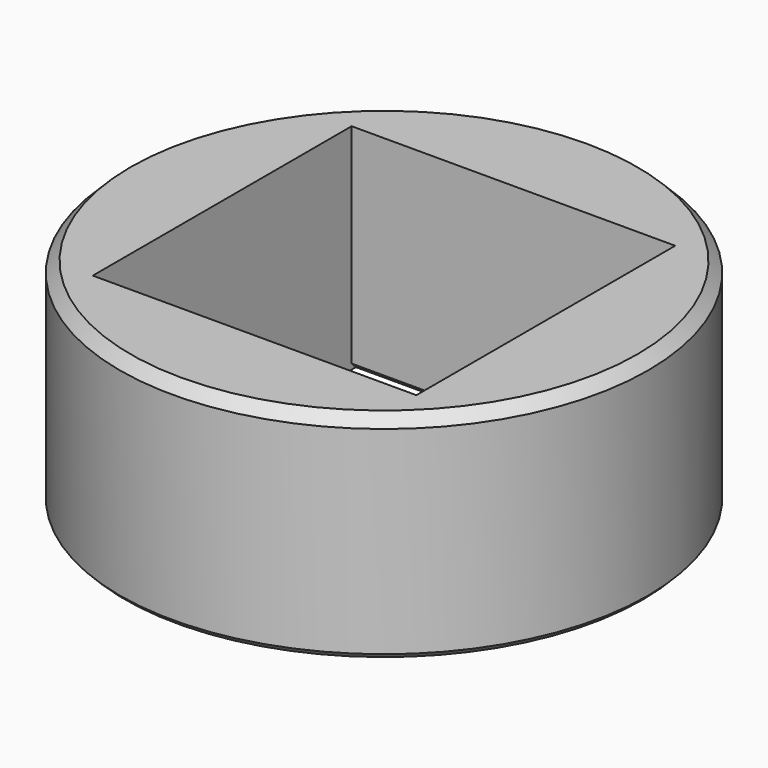
from build123d import *

# Parameters (mm, degrees)
BOX320_W          = 30.2
BOX320_H          = 30.2
BOX320_DEPTH      = 20
CYLINDER816_R     = 24.65
CYLINDER816_DEPTH = 20
CHAMFER006_SIZE   = 0.5
CHAMFER005_SIZE   = 1
CHAMFER007_SIZE   = 0.5


with BuildPart() as krychle320:
    # Box320 → Box320 (new body)
    with BuildSketch(Plane(origin=(-15.1, -15.1, 0), x_dir=(1, 0, 0), z_dir=(0, 0, 1))):
        with Locations((15.1, 15.1)):
            Rectangle(BOX320_W, BOX320_H)
    extrude(amount=BOX320_DEPTH)


with BuildPart() as chamfer007:
    # Cylinder816 → Cylinder816 (new body)
    with BuildSketch(Plane.XY):
        Circle(CYLINDER816_R)
    extrude(amount=CYLINDER816_DEPTH)

    # Cut349: cut Krychle320
    add(krychle320.part, mode=Mode.SUBTRACT)

    # Chamfer006
    chamfer006_edges = [chamfer007.edges().sort_by_distance(p)[0] for p in [
        (0, -15.1, 0),
        (0, 15.1, 0),
    ]]
    chamfer(chamfer006_edges, length=CHAMFER006_SIZE)

    # Chamfer005
    chamfer005_edges = [chamfer007.edges().sort_by_distance(p)[0] for p in [
        (-24.65, 0, 20),
    ]]
    chamfer(chamfer005_edges, length=CHAMFER005_SIZE)

    # Chamfer007
    chamfer007_edges = [chamfer007.edges().sort_by_distance(p)[0] for p in [
        (-24.65, 0, 0),
    ]]
    chamfer(chamfer007_edges, length=CHAMFER007_SIZE)


solid = chamfer007.part
